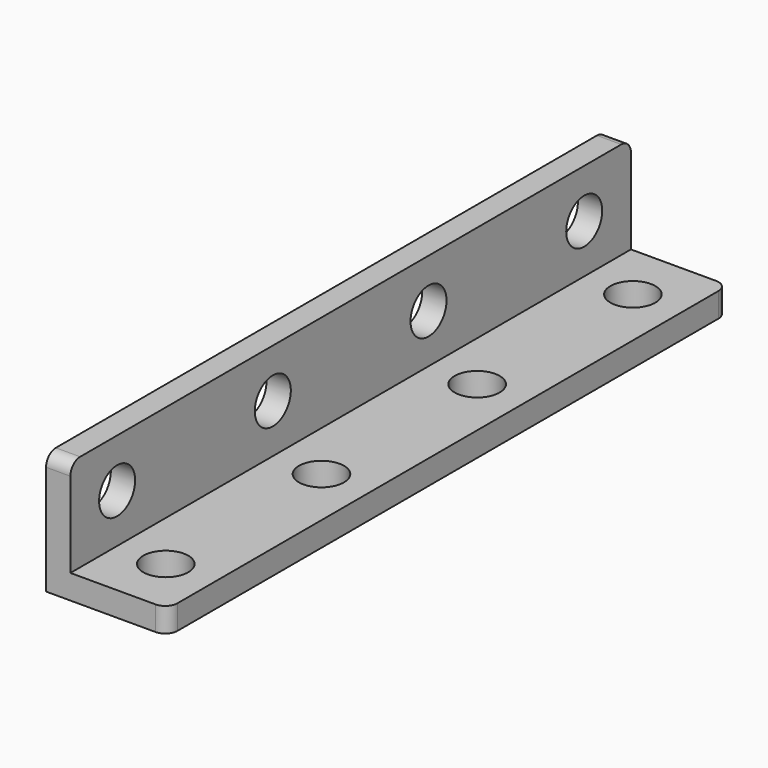
from build123d import *

# Parameters (mm, degrees)
F1_DEPTH = 57.6
F2_R     = 1
F3_R     = 1
F4_R     = 1
F5_R     = 1
F7_D     = 3.7
F9_D     = 3.7


with BuildPart() as f1:
    # F0 (on Front) → F1 (new body)
    with BuildSketch(Plane.XZ):
        Polygon((2, 8), (0, 8), (0, -2), (10, -2), (10, 0), (2, 0), align=None)
    extrude(amount=F1_DEPTH)

    # F2
    f2_edges = [f1.edges().sort_by_distance(p)[0] for p in [
        (1, -57.6, 8),
    ]]
    fillet(f2_edges, radius=F2_R)

    # F3
    f3_edges = [f1.edges().sort_by_distance(p)[0] for p in [
        (10, -57.6, -1),
    ]]
    fillet(f3_edges, radius=F3_R)

    # F4
    f4_edges = [f1.edges().sort_by_distance(p)[0] for p in [
        (1, 0, 8),
    ]]
    fillet(f4_edges, radius=F4_R)

    # F5
    f5_edges = [f1.edges().sort_by_distance(p)[0] for p in [
        (10, 0, -1),
    ]]
    fillet(f5_edges, radius=F5_R)

    # F7 (through all)
    with Locations(Plane.XY):
        with Locations((6, -52.8), (6, -36.8), (6, -20.8), (6, -4.8)):
            Hole(F7_D / 2)

    # F9 (through all)
    with Locations(Plane.YZ.offset(2)):
        with Locations((-52.8, 4), (-36.8, 4), (-20.8, 4), (-4.8, 4)):
            Hole(F9_D / 2)


solid = f1.part
